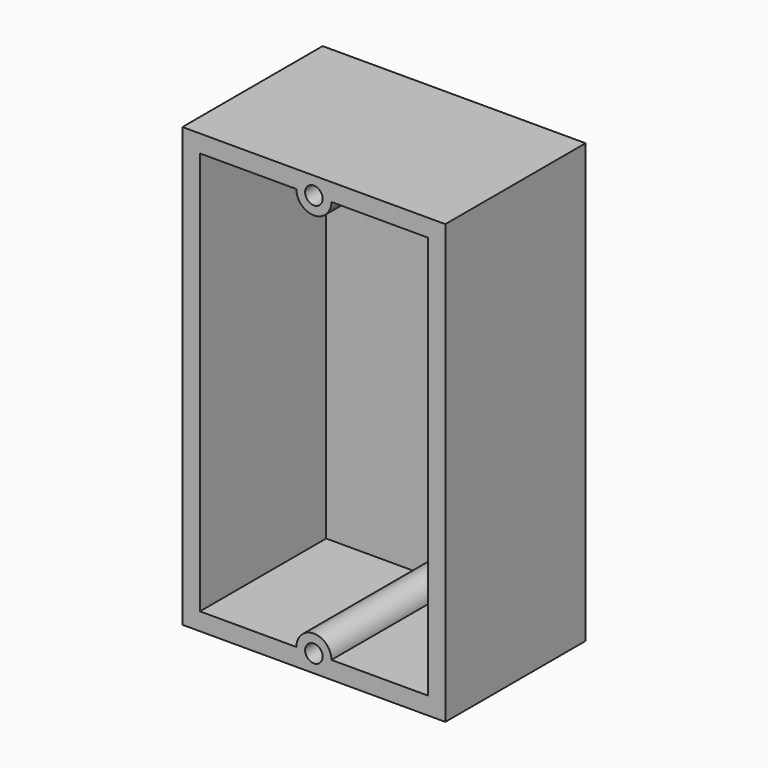
from build123d import *

# Parameters (mm, degrees)
F0_W     = 30
F0_H     = 50
F1_DEPTH = 20
F3_R     = 1
F4_DEPTH = 18


with BuildPart() as f1:
    # F0 (on Front) → F1 (new body)
    with BuildSketch(Plane.XZ):
        with Locations((15, 25)):
            Rectangle(F0_W, F0_H)
    extrude(amount=F1_DEPTH)

    # F3 (on offset) → F4 (cut)
    with BuildSketch(Plane.XZ.offset(20)):
        with BuildLine():
            Line((2, 48), (2, 2))
            Line((2, 2), (13, 2))
            ThreePointArc((13, 2), (15, 4), (17, 2))
            Line((17, 2), (28, 2))
            Line((28, 2), (28, 48))
            Line((28, 48), (17, 48))
            ThreePointArc((17, 48), (15, 46), (13, 48))
            Line((13, 48), (2, 48))
        make_face()
        with Locations((15, 2)):
            Circle(F3_R)
        with Locations((15, 48)):
            Circle(F3_R)
    extrude(amount=-F4_DEPTH, mode=Mode.SUBTRACT)


solid = f1.part
